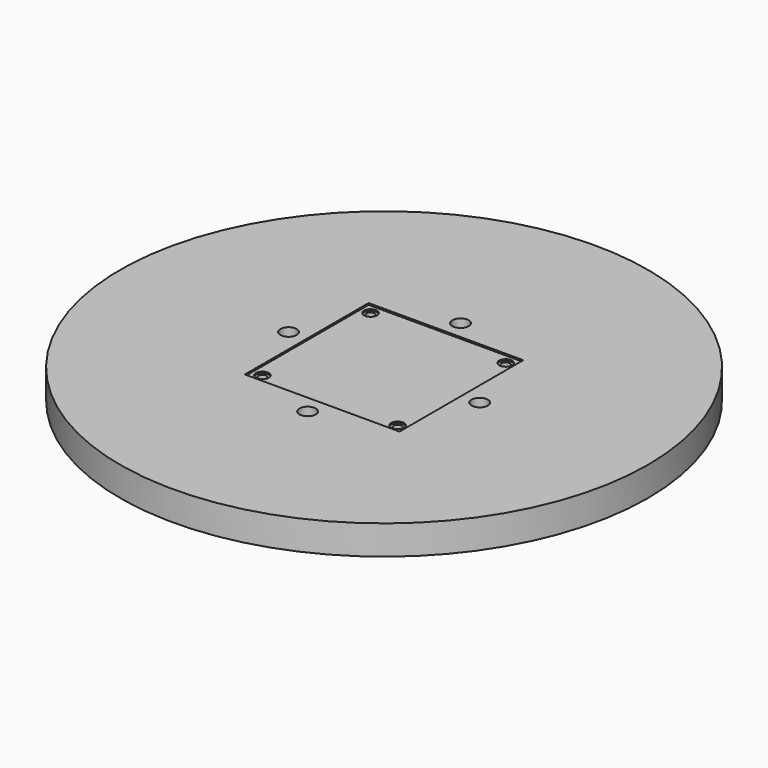
from build123d import *

# Parameters (mm, degrees)
SKETCH003_R      = 162.0844056183
PAD002_DEPTH     = 18
SKETCH009_W      = 95
SKETCH009_H      = 95
POCKET002_DEPTH  = 1
HOLE_D           = 5
HOLE_DEPTH       = 10
HOLE_CBORE_D     = 8
HOLE_CBORE_DEPTH = 1
SKETCH011_R      = 5
POCKET003_DEPTH  = 18.001


with BuildPart() as part:
    # Sketch003 → Pad002 (new body)
    with BuildSketch(Plane.XY):
        Circle(SKETCH003_R)
    extrude(amount=PAD002_DEPTH)

    # Sketch009 (on Face3 of Pad002) → Pocket002 (cut)
    with BuildSketch(Plane.XY.offset(18)):
        Rectangle(SKETCH009_W, SKETCH009_H)
    extrude(amount=-POCKET002_DEPTH, mode=Mode.SUBTRACT)

    # Hole
    with Locations(Plane.XY.offset(17)):
        with Locations((-41.5, 41.5), (41.5, 41.5), (-41.5, -41.5), (41.5, -41.5)):
            CounterBoreHole(HOLE_D / 2, HOLE_CBORE_D / 2, HOLE_CBORE_DEPTH, depth=HOLE_DEPTH)

    # Sketch011 (on Face3 of Hole) → Pocket003 (cut, through all)
    with BuildSketch(Plane.XY.offset(18)):
        with Locations((-58.6898628385, 0)):
            Circle(SKETCH011_R)
        with Locations((0, 58.6898628385)):
            Circle(SKETCH011_R)
        with Locations((58.6898628385, 0)):
            Circle(SKETCH011_R)
        with Locations((0, -58.6898628385)):
            Circle(SKETCH011_R)
    extrude(amount=-POCKET003_DEPTH, mode=Mode.SUBTRACT)


solid = part.part
